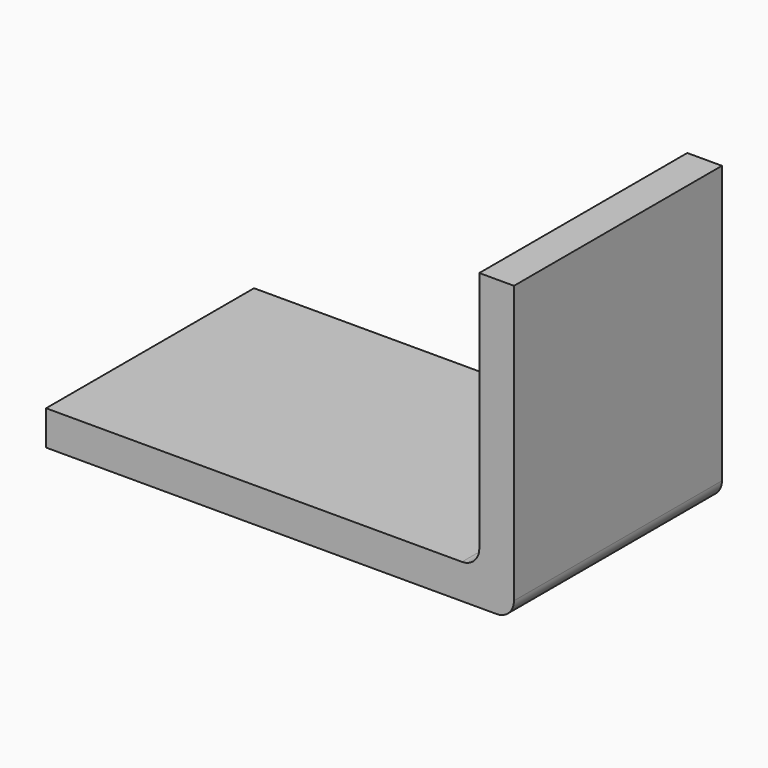
from build123d import *

# Parameters (mm, degrees)
F1_DEPTH = 15


with BuildPart() as f1:
    # F0 (on Front) → F1 (new body)
    with BuildSketch(Plane.XZ):
        with BuildLine():
            Line((24, 0), (0, 0))
            Line((0, 0), (0, -2))
            Line((0, -2), (26, -2))
            ThreePointArc((26, -2), (26.707107, -1.707107), (27, -1))
            Line((27, -1), (27, 0))
            Line((27, 0), (27, 15))
            Line((27, 15), (25, 15))
            Line((25, 15), (25, 1))
            ThreePointArc((25, 1), (24.707107, 0.292893), (24, 0))
        make_face()
    extrude(amount=F1_DEPTH)


solid = f1.part
